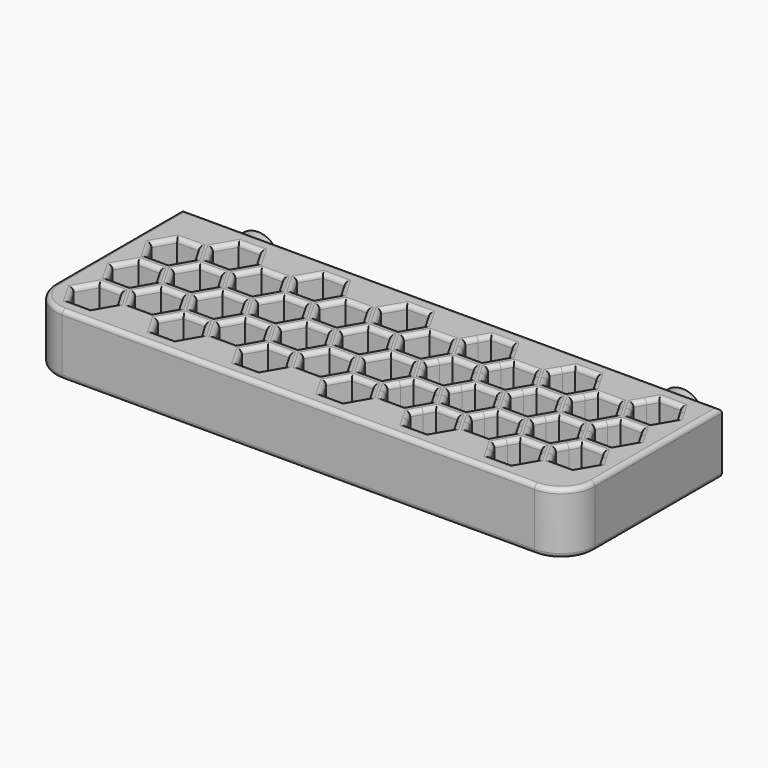
from build123d import *

# Parameters (mm, degrees)
F1_W     = 96.6151247493
F1_H     = 34.45
F2_DEPTH = 11
F3_DEPTH = 8
F4_R     = 6
F5_R     = 0.8
F6_R     = 2.4
F7_DEPTH = 2
F8_R     = 4
F8_R_2   = 2.4
F9_DEPTH = 2


with BuildPart() as f2:
    # F1 (on Top) → F2 (new body)
    with BuildSketch(Plane.XY):
        with Locations((71.5769996228, 10.875)):
            Rectangle(F1_W, F1_H)
    extrude(amount=-F2_DEPTH)

    # F0 (on Top) → F3 (cut)
    with BuildSketch(Plane.XY):
        Polygon((28.2035606499, 12.05), (26.2694372481, 8.7), (28.2035606499, 5.35), (32.0718074535, 5.35), (34.0059308553, 8.7), (32.0718074535, 12.05), align=None)
        Polygon((28.2035606499, 3.35), (26.2694372481, 0), (28.2035606499, -3.35), (32.0718074535, -3.35), (34.0059308553, 0), (32.0718074535, 3.35), align=None)
        Polygon((35.7379816628, 7.7), (33.8038582611, 4.35), (35.7379816628, 1), (39.6062284664, 1), (41.5403518682, 4.35), (39.6062284664, 7.7), align=None)
        Polygon((43.2724026758, 12.05), (41.338279274, 8.7), (43.2724026758, 5.35), (47.1406494793, 5.35), (49.0747728811, 8.7), (47.1406494793, 12.05), align=None)
        Polygon((43.2724026758, 3.35), (41.338279274, 0), (43.2724026758, -3.35), (47.1406494793, -3.35), (49.0747728811, 0), (47.1406494793, 3.35), align=None)
        Polygon((50.8068236887, 7.7), (48.8727002869, 4.35), (50.8068236887, 1), (54.6750704923, 1), (56.609193894, 4.35), (54.6750704923, 7.7), align=None)
        Polygon((58.3412447016, 12.05), (56.4071212998, 8.7), (58.3412447016, 5.35), (62.2094915052, 5.35), (64.143614907, 8.7), (62.2094915052, 12.05), align=None)
        Polygon((58.3412447016, 3.35), (56.4071212998, 0), (58.3412447016, -3.35), (62.2094915052, -3.35), (64.143614907, 0), (62.2094915052, 3.35), align=None)
        Polygon((65.8756657145, 7.7), (63.9415423128, 4.35), (65.8756657145, 1), (69.7439125181, 1), (71.6780359199, 4.35), (69.7439125181, 7.7), align=None)
        Polygon((73.4100867275, 12.05), (71.4759633257, 8.7), (73.4100867275, 5.35), (77.278333531, 5.35), (79.2124569328, 8.7), (77.278333531, 12.05), align=None)
        Polygon((73.4100867275, 3.35), (71.4759633257, 0), (73.4100867275, -3.35), (77.278333531, -3.35), (79.2124569328, 0), (77.278333531, 3.35), align=None)
        with BuildLine():
            ThreePointArc((85.779816152, 2.6749998392), (86.1144826362, 3.4829561093), (86.2286311422, 4.35))
            ThreePointArc((86.2286311422, 4.35), (86.1144826661, 5.2170437793), (85.7798162674, 6.0249999609))
            ThreePointArc((85.7798162674, 6.0249999609), (84.5536311617, 7.2511850914), (82.8786311422, 7.7))
            ThreePointArc((82.8786311422, 7.7), (81.2036311926, 7.2511851318), (79.9774460978, 6.025000101))
            ThreePointArc((79.9774460978, 6.025000101), (79.5286311422, 4.35), (79.9774460978, 2.674999899))
            ThreePointArc((79.9774460978, 2.674999899), (81.2036311926, 1.4488148682), (82.8786311422, 1))
            ThreePointArc((82.8786311422, 1), (84.5536310618, 1.4488148509), (85.779816152, 2.6749998392))
        make_face()
        with BuildLine():
            ThreePointArc((85.7798162674, 6.0249999609), (86.1144826661, 5.2170437793), (86.2286311422, 4.35))
            ThreePointArc((86.2286311422, 4.35), (86.1144826362, 3.4829561093), (85.779816152, 2.6749998392))
            Line((85.779816152, 2.6749998392), (86.7468779457, 4.35))
            Line((86.7468779457, 4.35), (85.7798162674, 6.0249999609))
        make_face()
        with BuildLine():
            ThreePointArc((82.8786311422, 7.7), (84.5536311617, 7.2511850914), (85.7798162674, 6.0249999609))
            Line((85.7798162674, 6.0249999609), (84.812754544, 7.7))
            Line((84.812754544, 7.7), (82.8786311422, 7.7))
        make_face()
        with BuildLine():
            Line((84.812754544, 1), (85.779816152, 2.6749998392))
            ThreePointArc((85.779816152, 2.6749998392), (84.5536310618, 1.4488148509), (82.8786311422, 1))
            Line((82.8786311422, 1), (84.812754544, 1))
        make_face()
        with BuildLine():
            ThreePointArc((79.9774460978, 6.025000101), (81.2036311926, 7.2511851318), (82.8786311422, 7.7))
            Line((82.8786311422, 7.7), (80.9445077404, 7.7))
            Line((80.9445077404, 7.7), (79.9774460978, 6.025000101))
        make_face()
        with BuildLine():
            Line((80.9445077404, 1), (82.8786311422, 1))
            ThreePointArc((82.8786311422, 1), (81.2036311926, 1.4488148682), (79.9774460978, 2.674999899))
            Line((79.9774460978, 2.674999899), (80.9445077404, 1))
        make_face()
        with BuildLine():
            ThreePointArc((79.9774460978, 2.674999899), (79.5286311422, 4.35), (79.9774460978, 6.025000101))
            Line((79.9774460978, 6.025000101), (79.0103843386, 4.35))
            Line((79.0103843386, 4.35), (79.9774460978, 2.674999899))
        make_face()
        with BuildLine():
            ThreePointArc((93.3142372458, 7.0249999793), (93.6489036701, 7.8329561874), (93.7630521551, 8.7))
            ThreePointArc((93.7630521551, 8.7), (93.6489036725, 9.5670438034), (93.3142372554, 10.3750000042))
            ThreePointArc((93.3142372554, 10.3750000042), (92.088052153, 11.6011851039), (90.4130521551, 12.05))
            ThreePointArc((90.4130521551, 12.05), (88.7380520655, 11.601185051), (87.511866949, 10.3749998209))
            ThreePointArc((87.511866949, 10.3749998209), (87.0630521551, 8.6999998942), (87.5118670548, 7.0249999958))
            ThreePointArc((87.5118670548, 7.0249999958), (88.7380521572, 5.7988148961), (90.4130521551, 5.35))
            ThreePointArc((90.4130521551, 5.35), (92.0880521447, 5.7988148913), (93.3142372458, 7.0249999793))
        make_face()
        with BuildLine():
            ThreePointArc((93.3142372554, 10.3750000042), (93.6489036725, 9.5670438034), (93.7630521551, 8.7))
            ThreePointArc((93.7630521551, 8.7), (93.6489036701, 7.8329561874), (93.3142372458, 7.0249999793))
            Line((93.3142372458, 7.0249999793), (94.2812989587, 8.7))
            Line((94.2812989587, 8.7), (93.3142372554, 10.3750000042))
        make_face()
        with BuildLine():
            ThreePointArc((90.4130521551, 12.05), (92.088052153, 11.6011851039), (93.3142372554, 10.3750000042))
            Line((93.3142372554, 10.3750000042), (92.3471755569, 12.05))
            Line((92.3471755569, 12.05), (90.4130521551, 12.05))
        make_face()
        with BuildLine():
            Line((92.3471755569, 5.35), (93.3142372458, 7.0249999793))
            ThreePointArc((93.3142372458, 7.0249999793), (92.0880521447, 5.7988148913), (90.4130521551, 5.35))
            Line((90.4130521551, 5.35), (92.3471755569, 5.35))
        make_face()
        with BuildLine():
            ThreePointArc((87.511866949, 10.3749998209), (88.7380520655, 11.601185051), (90.4130521551, 12.05))
            Line((90.4130521551, 12.05), (88.4789287533, 12.05))
            Line((88.4789287533, 12.05), (87.511866949, 10.3749998209))
        make_face()
        with BuildLine():
            Line((88.4789287533, 5.35), (90.4130521551, 5.35))
            ThreePointArc((90.4130521551, 5.35), (88.7380521572, 5.7988148961), (87.5118670548, 7.0249999958))
            Line((87.5118670548, 7.0249999958), (88.4789287533, 5.35))
        make_face()
        with BuildLine():
            ThreePointArc((87.5118670548, 7.0249999958), (87.0630521551, 8.6999998942), (87.511866949, 10.3749998209))
            Line((87.511866949, 10.3749998209), (86.5448053515, 8.7))
            Line((86.5448053515, 8.7), (87.5118670548, 7.0249999958))
        make_face()
        Polygon((35.7379816628, 16.4), (33.8038582611, 13.05), (35.7379816628, 9.7), (39.6062284664, 9.7), (41.5403518682, 13.05), (39.6062284664, 16.4), align=None)
        Polygon((50.8068236887, 16.4), (48.8727002869, 13.05), (50.8068236887, 9.7), (54.6750704923, 9.7), (56.609193894, 13.05), (54.6750704923, 16.4), align=None)
        Polygon((65.8756657145, 16.4), (63.9415423128, 13.05), (65.8756657145, 9.7), (69.7439125181, 9.7), (71.6780359199, 13.05), (69.7439125181, 16.4), align=None)
        with BuildLine():
            ThreePointArc((85.7798163056, 11.3750001052), (86.114482676, 12.1829562576), (86.2286311422, 13.05))
            ThreePointArc((86.2286311422, 13.05), (86.1144827039, 13.917043638), (85.7798164137, 14.7249997076))
            ThreePointArc((85.7798164137, 14.7249997076), (84.5536312884, 15.9511850183), (82.8786311422, 16.4))
            ThreePointArc((82.8786311422, 16.4), (81.2036311926, 15.9511851318), (79.9774460978, 14.725000101))
            ThreePointArc((79.9774460978, 14.725000101), (79.5286311422, 13.0500000809), (79.9774460169, 11.3750000391))
            ThreePointArc((79.9774460169, 11.3750000391), (81.2036311226, 10.1488149086), (82.8786311422, 9.7))
            ThreePointArc((82.8786311422, 9.7), (84.5536311948, 10.1488149277), (85.7798163056, 11.3750001052))
        make_face()
        with BuildLine():
            ThreePointArc((85.7798164137, 14.7249997076), (86.1144827039, 13.917043638), (86.2286311422, 13.05))
            ThreePointArc((86.2286311422, 13.05), (86.114482676, 12.1829562576), (85.7798163056, 11.3750001052))
            Line((85.7798163056, 11.3750001052), (86.7468779457, 13.05))
            Line((86.7468779457, 13.05), (85.7798164137, 14.7249997076))
        make_face()
        with BuildLine():
            ThreePointArc((82.8786311422, 16.4), (84.5536312884, 15.9511850183), (85.7798164137, 14.7249997076))
            Line((85.7798164137, 14.7249997076), (84.812754544, 16.4))
            Line((84.812754544, 16.4), (82.8786311422, 16.4))
        make_face()
        with BuildLine():
            Line((84.812754544, 9.7), (85.7798163056, 11.3750001052))
            ThreePointArc((85.7798163056, 11.3750001052), (84.5536311948, 10.1488149277), (82.8786311422, 9.7))
            Line((82.8786311422, 9.7), (84.812754544, 9.7))
        make_face()
        with BuildLine():
            ThreePointArc((79.9774460978, 14.725000101), (81.2036311926, 15.9511851318), (82.8786311422, 16.4))
            Line((82.8786311422, 16.4), (80.9445077404, 16.4))
            Line((80.9445077404, 16.4), (79.9774460978, 14.725000101))
        make_face()
        with BuildLine():
            Line((80.9445077404, 9.7), (82.8786311422, 9.7))
            ThreePointArc((82.8786311422, 9.7), (81.2036311226, 10.1488149086), (79.9774460169, 11.3750000391))
            Line((79.9774460169, 11.3750000391), (80.9445077404, 9.7))
        make_face()
        with BuildLine():
            ThreePointArc((79.9774460169, 11.3750000391), (79.5286311422, 13.0500000809), (79.9774460978, 14.725000101))
            Line((79.9774460978, 14.725000101), (79.0103843386, 13.05))
            Line((79.0103843386, 13.05), (79.9774460169, 11.3750000391))
        make_face()
        with BuildLine():
            ThreePointArc((100.8486583241, 11.3750000926), (101.1833246999, 12.1829562505), (101.297473168, 13.05))
            ThreePointArc((101.297473168, 13.05), (101.1833247024, 13.9170437402), (100.8486583337, 14.7249998909))
            ThreePointArc((100.8486583337, 14.7249998909), (99.6224732226, 15.9511850712), (97.947473168, 16.4))
            ThreePointArc((97.947473168, 16.4), (96.2724732185, 15.9511851318), (95.0462881236, 14.725000101))
            ThreePointArc((95.0462881236, 14.725000101), (94.597473168, 13.0500000809), (95.0462880428, 11.3750000391))
            ThreePointArc((95.0462880428, 11.3750000391), (96.2724731485, 10.1488149086), (97.947473168, 9.7))
            ThreePointArc((97.947473168, 9.7), (99.6224732143, 10.148814924), (100.8486583241, 11.3750000926))
        make_face()
        with BuildLine():
            ThreePointArc((100.8486583337, 14.7249998909), (101.1833247024, 13.9170437402), (101.297473168, 13.05))
            ThreePointArc((101.297473168, 13.05), (101.1833246999, 12.1829562505), (100.8486583241, 11.3750000926))
            Line((100.8486583241, 11.3750000926), (101.8157199716, 13.05))
            Line((101.8157199716, 13.05), (100.8486583337, 14.7249998909))
        make_face()
        with BuildLine():
            ThreePointArc((97.947473168, 16.4), (99.6224732226, 15.9511850712), (100.8486583337, 14.7249998909))
            Line((100.8486583337, 14.7249998909), (99.8815965698, 16.4))
            Line((99.8815965698, 16.4), (97.947473168, 16.4))
        make_face()
        with BuildLine():
            Line((99.8815965698, 9.7), (100.8486583241, 11.3750000926))
            ThreePointArc((100.8486583241, 11.3750000926), (99.6224732143, 10.148814924), (97.947473168, 9.7))
            Line((97.947473168, 9.7), (99.8815965698, 9.7))
        make_face()
        with BuildLine():
            ThreePointArc((95.0462881236, 14.725000101), (96.2724732185, 15.9511851318), (97.947473168, 16.4))
            Line((97.947473168, 16.4), (96.0133497662, 16.4))
            Line((96.0133497662, 16.4), (95.0462881236, 14.725000101))
        make_face()
        with BuildLine():
            Line((96.0133497662, 9.7), (97.947473168, 9.7))
            ThreePointArc((97.947473168, 9.7), (96.2724731485, 10.1488149086), (95.0462880428, 11.3750000391))
            Line((95.0462880428, 11.3750000391), (96.0133497662, 9.7))
        make_face()
        with BuildLine():
            ThreePointArc((95.0462880428, 11.3750000391), (94.597473168, 13.0500000809), (95.0462881236, 14.725000101))
            Line((95.0462881236, 14.725000101), (94.0792263644, 13.05))
            Line((94.0792263644, 13.05), (95.0462880428, 11.3750000391))
        make_face()
        Polygon((28.2035606499, 20.75), (26.2694372481, 17.4), (28.2035606499, 14.05), (32.0718074535, 14.05), (34.0059308553, 17.4), (32.0718074535, 20.75), align=None)
        Polygon((35.7379816628, 25.1), (33.8038582611, 21.75), (35.7379816628, 18.4), (39.6062284664, 18.4), (41.5403518682, 21.75), (39.6062284664, 25.1), align=None)
        Polygon((43.2724026758, 20.75), (41.338279274, 17.4), (43.2724026758, 14.05), (47.1406494793, 14.05), (49.0747728811, 17.4), (47.1406494793, 20.75), align=None)
        Polygon((50.8068236887, 25.1), (48.8727002869, 21.75), (50.8068236887, 18.4), (54.6750704923, 18.4), (56.609193894, 21.75), (54.6750704923, 25.1), align=None)
        Polygon((58.3412447016, 20.75), (56.4071212998, 17.4), (58.3412447016, 14.05), (62.2094915052, 14.05), (64.143614907, 17.4), (62.2094915052, 20.75), align=None)
        Polygon((65.8756657145, 25.1), (63.9415423128, 21.75), (65.8756657145, 18.4), (69.7439125181, 18.4), (71.6780359199, 21.75), (69.7439125181, 25.1), align=None)
        Polygon((73.4100867275, 20.75), (71.4759633257, 17.4), (73.4100867275, 14.05), (77.278333531, 14.05), (79.2124569328, 17.4), (77.278333531, 20.75), align=None)
        with BuildLine():
            ThreePointArc((85.7798163483, 20.0750001791), (86.114482687, 20.8829562988), (86.2286311422, 21.75))
            ThreePointArc((86.2286311422, 21.75), (86.1144826153, 22.6170439688), (85.7798160712, 23.4250003008))
            ThreePointArc((85.7798160712, 23.4250003008), (84.5536309918, 24.6511851895), (82.8786311422, 25.1))
            ThreePointArc((82.8786311422, 25.1), (81.203631153, 24.6511851089), (79.977446052, 23.4250000216))
            ThreePointArc((79.977446052, 23.4250000216), (79.5286311422, 21.7500000351), (79.9774460169, 20.0750000391))
            ThreePointArc((79.9774460169, 20.0750000391), (81.2036311226, 18.8488149086), (82.8786311422, 18.4))
            ThreePointArc((82.8786311422, 18.4), (84.5536312317, 18.848814949), (85.7798163483, 20.0750001791))
        make_face()
        with BuildLine():
            ThreePointArc((85.7798160712, 23.4250003008), (86.1144826153, 22.6170439688), (86.2286311422, 21.75))
            ThreePointArc((86.2286311422, 21.75), (86.114482687, 20.8829562988), (85.7798163483, 20.0750001791))
            Line((85.7798163483, 20.0750001791), (86.7468779457, 21.75))
            Line((86.7468779457, 21.75), (85.7798160712, 23.4250003008))
        make_face()
        with BuildLine():
            ThreePointArc((82.8786311422, 25.1), (84.5536309918, 24.6511851895), (85.7798160712, 23.4250003008))
            Line((85.7798160712, 23.4250003008), (84.812754544, 25.1))
            Line((84.812754544, 25.1), (82.8786311422, 25.1))
        make_face()
        with BuildLine():
            Line((84.812754544, 18.4), (85.7798163483, 20.0750001791))
            ThreePointArc((85.7798163483, 20.0750001791), (84.5536312317, 18.848814949), (82.8786311422, 18.4))
            Line((82.8786311422, 18.4), (84.812754544, 18.4))
        make_face()
        with BuildLine():
            ThreePointArc((79.977446052, 23.4250000216), (81.203631153, 24.6511851089), (82.8786311422, 25.1))
            Line((82.8786311422, 25.1), (80.9445077404, 25.1))
            Line((80.9445077404, 25.1), (79.977446052, 23.4250000216))
        make_face()
        with BuildLine():
            Line((80.9445077404, 18.4), (82.8786311422, 18.4))
            ThreePointArc((82.8786311422, 18.4), (81.2036311226, 18.8488149086), (79.9774460169, 20.0750000391))
            Line((79.9774460169, 20.0750000391), (80.9445077404, 18.4))
        make_face()
        with BuildLine():
            ThreePointArc((79.9774460169, 20.0750000391), (79.5286311422, 21.7500000351), (79.977446052, 23.4250000216))
            Line((79.977446052, 23.4250000216), (79.0103843386, 21.75))
            Line((79.0103843386, 21.75), (79.9774460169, 20.0750000391))
        make_face()
        with BuildLine():
            ThreePointArc((93.3142372554, 15.7249999958), (93.6489036725, 16.5329561966), (93.7630521551, 17.4))
            ThreePointArc((93.7630521551, 17.4), (93.648903679, 18.2670437793), (93.3142372803, 19.0749999609))
            ThreePointArc((93.3142372803, 19.0749999609), (92.0880521746, 20.3011850914), (90.4130521551, 20.75))
            ThreePointArc((90.4130521551, 20.75), (88.7380521572, 20.3011851039), (87.5118670548, 19.0750000042))
            ThreePointArc((87.5118670548, 19.0750000042), (87.0630521551, 17.4000000904), (87.5118669644, 15.7250001524))
            ThreePointArc((87.5118669644, 15.7250001524), (88.7380520789, 14.4988149413), (90.4130521551, 14.05))
            ThreePointArc((90.4130521551, 14.05), (92.088052153, 14.4988148961), (93.3142372554, 15.7249999958))
        make_face()
        with BuildLine():
            ThreePointArc((93.3142372803, 19.0749999609), (93.648903679, 18.2670437793), (93.7630521551, 17.4))
            ThreePointArc((93.7630521551, 17.4), (93.6489036725, 16.5329561966), (93.3142372554, 15.7249999958))
            Line((93.3142372554, 15.7249999958), (94.2812989587, 17.4))
            Line((94.2812989587, 17.4), (93.3142372803, 19.0749999609))
        make_face()
        with BuildLine():
            ThreePointArc((90.4130521551, 20.75), (92.0880521746, 20.3011850914), (93.3142372803, 19.0749999609))
            Line((93.3142372803, 19.0749999609), (92.3471755569, 20.75))
            Line((92.3471755569, 20.75), (90.4130521551, 20.75))
        make_face()
        with BuildLine():
            Line((92.3471755569, 14.05), (93.3142372554, 15.7249999958))
            ThreePointArc((93.3142372554, 15.7249999958), (92.088052153, 14.4988148961), (90.4130521551, 14.05))
            Line((90.4130521551, 14.05), (92.3471755569, 14.05))
        make_face()
        with BuildLine():
            ThreePointArc((87.5118670548, 19.0750000042), (88.7380521572, 20.3011851039), (90.4130521551, 20.75))
            Line((90.4130521551, 20.75), (88.4789287533, 20.75))
            Line((88.4789287533, 20.75), (87.5118670548, 19.0750000042))
        make_face()
        with BuildLine():
            Line((88.4789287533, 14.05), (90.4130521551, 14.05))
            ThreePointArc((90.4130521551, 14.05), (88.7380520789, 14.4988149413), (87.5118669644, 15.7250001524))
            Line((87.5118669644, 15.7250001524), (88.4789287533, 14.05))
        make_face()
        with BuildLine():
            ThreePointArc((87.5118669644, 15.7250001524), (87.0630521551, 17.4000000904), (87.5118670548, 19.0750000042))
            Line((87.5118670548, 19.0750000042), (86.5448053515, 17.4))
            Line((86.5448053515, 17.4), (87.5118669644, 15.7250001524))
        make_face()
        with BuildLine():
            ThreePointArc((100.8486583741, 20.0750001791), (101.1833247129, 20.8829562988), (101.297473168, 21.75))
            ThreePointArc((101.297473168, 21.75), (101.1833247024, 22.6170437402), (100.8486583337, 23.4249998909))
            ThreePointArc((100.8486583337, 23.4249998909), (99.6224732226, 24.6511850712), (97.947473168, 25.1))
            ThreePointArc((97.947473168, 25.1), (96.2724730785, 24.651185051), (95.0462879619, 23.4249998209))
            ThreePointArc((95.0462879619, 23.4249998209), (94.597473168, 21.7499999191), (95.0462880428, 20.0750000391))
            ThreePointArc((95.0462880428, 20.0750000391), (96.2724731485, 18.8488149086), (97.947473168, 18.4))
            ThreePointArc((97.947473168, 18.4), (99.6224732576, 18.848814949), (100.8486583741, 20.0750001791))
        make_face()
        with BuildLine():
            ThreePointArc((100.8486583337, 23.4249998909), (101.1833247024, 22.6170437402), (101.297473168, 21.75))
            ThreePointArc((101.297473168, 21.75), (101.1833247129, 20.8829562988), (100.8486583741, 20.0750001791))
            Line((100.8486583741, 20.0750001791), (101.8157199716, 21.75))
            Line((101.8157199716, 21.75), (100.8486583337, 23.4249998909))
        make_face()
        with BuildLine():
            ThreePointArc((97.947473168, 25.1), (99.6224732226, 24.6511850712), (100.8486583337, 23.4249998909))
            Line((100.8486583337, 23.4249998909), (99.8815965698, 25.1))
            Line((99.8815965698, 25.1), (97.947473168, 25.1))
        make_face()
        with BuildLine():
            Line((99.8815965698, 18.4), (100.8486583741, 20.0750001791))
            ThreePointArc((100.8486583741, 20.0750001791), (99.6224732576, 18.848814949), (97.947473168, 18.4))
            Line((97.947473168, 18.4), (99.8815965698, 18.4))
        make_face()
        with BuildLine():
            ThreePointArc((95.0462879619, 23.4249998209), (96.2724730785, 24.651185051), (97.947473168, 25.1))
            Line((97.947473168, 25.1), (96.0133497662, 25.1))
            Line((96.0133497662, 25.1), (95.0462879619, 23.4249998209))
        make_face()
        with BuildLine():
            Line((96.0133497662, 18.4), (97.947473168, 18.4))
            ThreePointArc((97.947473168, 18.4), (96.2724731485, 18.8488149086), (95.0462880428, 20.0750000391))
            Line((95.0462880428, 20.0750000391), (96.0133497662, 18.4))
        make_face()
        with BuildLine():
            ThreePointArc((95.0462880428, 20.0750000391), (94.597473168, 21.7499999191), (95.0462879619, 23.4249998209))
            Line((95.0462879619, 23.4249998209), (94.0792263644, 21.75))
            Line((94.0792263644, 21.75), (95.0462880428, 20.0750000391))
        make_face()
        with BuildLine():
            ThreePointArc((108.3830792003, 15.7249998558), (108.7177456775, 16.5329561185), (108.8318941809, 17.4))
            ThreePointArc((108.8318941809, 17.4), (108.7177456984, 18.2670438034), (108.3830792812, 19.0750000042))
            ThreePointArc((108.3830792812, 19.0750000042), (107.1568941789, 20.3011851039), (105.4818941809, 20.75))
            ThreePointArc((105.4818941809, 20.75), (103.8068940914, 20.301185051), (102.5807089748, 19.0749998209))
            ThreePointArc((102.5807089748, 19.0749998209), (102.1318941809, 17.4000000654), (102.5807089094, 15.7250002924))
            ThreePointArc((102.5807089094, 15.7250002924), (103.8068940347, 14.4988149817), (105.4818941809, 14.05))
            ThreePointArc((105.4818941809, 14.05), (107.1568941088, 14.4988148557), (108.3830792003, 15.7249998558))
        make_face()
        with BuildLine():
            ThreePointArc((108.3830792812, 19.0750000042), (108.7177456984, 18.2670438034), (108.8318941809, 17.4))
            ThreePointArc((108.8318941809, 17.4), (108.7177456775, 16.5329561185), (108.3830792003, 15.7249998558))
            Line((108.3830792003, 15.7249998558), (109.3501409845, 17.4))
            Line((109.3501409845, 17.4), (108.3830792812, 19.0750000042))
        make_face()
        with BuildLine():
            ThreePointArc((105.4818941809, 20.75), (107.1568941789, 20.3011851039), (108.3830792812, 19.0750000042))
            Line((108.3830792812, 19.0750000042), (107.4160175827, 20.75))
            Line((107.4160175827, 20.75), (105.4818941809, 20.75))
        make_face()
        with BuildLine():
            Line((107.4160175827, 14.05), (108.3830792003, 15.7249998558))
            ThreePointArc((108.3830792003, 15.7249998558), (107.1568941088, 14.4988148557), (105.4818941809, 14.05))
            Line((105.4818941809, 14.05), (107.4160175827, 14.05))
        make_face()
        with BuildLine():
            ThreePointArc((102.5807089748, 19.0749998209), (103.8068940914, 20.301185051), (105.4818941809, 20.75))
            Line((105.4818941809, 20.75), (103.5477707792, 20.75))
            Line((103.5477707792, 20.75), (102.5807089748, 19.0749998209))
        make_face()
        with BuildLine():
            Line((103.5477707792, 14.05), (105.4818941809, 14.05))
            ThreePointArc((105.4818941809, 14.05), (103.8068940347, 14.4988149817), (102.5807089094, 15.7250002924))
            Line((102.5807089094, 15.7250002924), (103.5477707792, 14.05))
        make_face()
        with BuildLine():
            ThreePointArc((102.5807089094, 15.7250002924), (102.1318941809, 17.4000000654), (102.5807089748, 19.0749998209))
            Line((102.5807089748, 19.0749998209), (101.6136473774, 17.4))
            Line((101.6136473774, 17.4), (102.5807089094, 15.7250002924))
        make_face()
        with BuildLine():
            ThreePointArc((115.9175002941, 20.0749999958), (116.2521667113, 20.8829561966), (116.3663151939, 21.75))
            ThreePointArc((116.3663151939, 21.75), (116.2521667178, 22.6170437793), (115.9175003191, 23.4249999609))
            ThreePointArc((115.9175003191, 23.4249999609), (114.6913152134, 24.6511850914), (113.0163151939, 25.1))
            ThreePointArc((113.0163151939, 25.1), (111.3413152047, 24.6511851089), (110.1151301037, 23.4250000216))
            ThreePointArc((110.1151301037, 23.4250000216), (109.6663151939, 21.7500000351), (110.1151300686, 20.0750000391))
            ThreePointArc((110.1151300686, 20.0750000391), (111.3413151743, 18.8488149086), (113.0163151939, 18.4))
            ThreePointArc((113.0163151939, 18.4), (114.6913151918, 18.8488148961), (115.9175002941, 20.0749999958))
        make_face()
        with BuildLine():
            ThreePointArc((115.9175003191, 23.4249999609), (116.2521667178, 22.6170437793), (116.3663151939, 21.75))
            ThreePointArc((116.3663151939, 21.75), (116.2521667113, 20.8829561966), (115.9175002941, 20.0749999958))
            Line((115.9175002941, 20.0749999958), (116.8845619974, 21.75))
            Line((116.8845619974, 21.75), (115.9175003191, 23.4249999609))
        make_face()
        with BuildLine():
            ThreePointArc((113.0163151939, 25.1), (114.6913152134, 24.6511850914), (115.9175003191, 23.4249999609))
            Line((115.9175003191, 23.4249999609), (114.9504385957, 25.1))
            Line((114.9504385957, 25.1), (113.0163151939, 25.1))
        make_face()
        with BuildLine():
            Line((114.9504385957, 18.4), (115.9175002941, 20.0749999958))
            ThreePointArc((115.9175002941, 20.0749999958), (114.6913151918, 18.8488148961), (113.0163151939, 18.4))
            Line((113.0163151939, 18.4), (114.9504385957, 18.4))
        make_face()
        with BuildLine():
            ThreePointArc((110.1151301037, 23.4250000216), (111.3413152047, 24.6511851089), (113.0163151939, 25.1))
            Line((113.0163151939, 25.1), (111.0821917921, 25.1))
            Line((111.0821917921, 25.1), (110.1151301037, 23.4250000216))
        make_face()
        with BuildLine():
            Line((111.0821917921, 18.4), (113.0163151939, 18.4))
            ThreePointArc((113.0163151939, 18.4), (111.3413151743, 18.8488149086), (110.1151300686, 20.0750000391))
            Line((110.1151300686, 20.0750000391), (111.0821917921, 18.4))
        make_face()
        with BuildLine():
            ThreePointArc((110.1151300686, 20.0750000391), (109.6663151939, 21.7500000351), (110.1151301037, 23.4250000216))
            Line((110.1151301037, 23.4250000216), (109.1480683903, 21.75))
            Line((109.1480683903, 21.75), (110.1151300686, 20.0750000391))
        make_face()
        with BuildLine():
            ThreePointArc((93.3142372054, -1.6750000907), (93.6489036596, -0.8670438517), (93.7630521551, 0))
            ThreePointArc((93.7630521551, 0), (93.6489036596, 0.8670438517), (93.3142372054, 1.6750000907))
            ThreePointArc((93.3142372054, 1.6750000907), (92.0880521097, 2.9011851289), (90.4130521551, 3.35))
            ThreePointArc((90.4130521551, 3.35), (88.7380522056, 2.9011851318), (87.5118671107, 1.675000101))
            ThreePointArc((87.5118671107, 1.675000101), (87.0630521551, 1.367e-07), (87.511866974, -1.6749998641))
            ThreePointArc((87.511866974, -1.6749998641), (88.7380520872, -2.9011850635), (90.4130521551, -3.35))
            ThreePointArc((90.4130521551, -3.35), (92.0880521097, -2.9011851289), (93.3142372054, -1.6750000907))
        make_face()
        with BuildLine():
            ThreePointArc((93.3142372054, 1.6750000907), (93.6489036596, 0.8670438517), (93.7630521551, 0))
            ThreePointArc((93.7630521551, 0), (93.6489036596, -0.8670438517), (93.3142372054, -1.6750000907))
            Line((93.3142372054, -1.6750000907), (94.2812989587, 0))
            Line((94.2812989587, 0), (93.3142372054, 1.6750000907))
        make_face()
        with BuildLine():
            ThreePointArc((90.4130521551, 3.35), (92.0880521097, 2.9011851289), (93.3142372054, 1.6750000907))
            Line((93.3142372054, 1.6750000907), (92.3471755569, 3.35))
            Line((92.3471755569, 3.35), (90.4130521551, 3.35))
        make_face()
        with BuildLine():
            Line((92.3471755569, -3.35), (93.3142372054, -1.6750000907))
            ThreePointArc((93.3142372054, -1.6750000907), (92.0880521097, -2.9011851289), (90.4130521551, -3.35))
            Line((90.4130521551, -3.35), (92.3471755569, -3.35))
        make_face()
        with BuildLine():
            ThreePointArc((87.5118671107, 1.675000101), (88.7380522056, 2.9011851318), (90.4130521551, 3.35))
            Line((90.4130521551, 3.35), (88.4789287533, 3.35))
            Line((88.4789287533, 3.35), (87.5118671107, 1.675000101))
        make_face()
        with BuildLine():
            Line((88.4789287533, -3.35), (90.4130521551, -3.35))
            ThreePointArc((90.4130521551, -3.35), (88.7380520872, -2.9011850635), (87.511866974, -1.6749998641))
            Line((87.511866974, -1.6749998641), (88.4789287533, -3.35))
        make_face()
        with BuildLine():
            ThreePointArc((87.511866974, -1.6749998641), (87.0630521551, 1.367e-07), (87.5118671107, 1.675000101))
            Line((87.5118671107, 1.675000101), (86.5448053515, 0))
            Line((86.5448053515, 0), (87.511866974, -1.6749998641))
        make_face()
        with BuildLine():
            ThreePointArc((100.8486583241, 2.6750000926), (101.1833246999, 3.4829562505), (101.297473168, 4.35))
            ThreePointArc((101.297473168, 4.35), (101.1833247089, 5.2170437161), (100.8486583587, 6.0249998476))
            ThreePointArc((100.8486583587, 6.0249998476), (99.6224732442, 7.2511850587), (97.947473168, 7.7))
            ThreePointArc((97.947473168, 7.7), (96.2724731351, 7.2511850837), (95.0462880273, 6.0249999342))
            ThreePointArc((95.0462880273, 6.0249999342), (94.597473168, 4.3500000125), (95.0462880148, 2.6750000875))
            ThreePointArc((95.0462880148, 2.6750000875), (96.2724731243, 1.4488149226), (97.947473168, 1))
            ThreePointArc((97.947473168, 1), (99.6224732143, 1.448814924), (100.8486583241, 2.6750000926))
        make_face()
        with BuildLine():
            ThreePointArc((100.8486583587, 6.0249998476), (101.1833247089, 5.2170437161), (101.297473168, 4.35))
            ThreePointArc((101.297473168, 4.35), (101.1833246999, 3.4829562505), (100.8486583241, 2.6750000926))
            Line((100.8486583241, 2.6750000926), (101.8157199716, 4.35))
            Line((101.8157199716, 4.35), (100.8486583587, 6.0249998476))
        make_face()
        with BuildLine():
            ThreePointArc((97.947473168, 7.7), (99.6224732442, 7.2511850587), (100.8486583587, 6.0249998476))
            Line((100.8486583587, 6.0249998476), (99.8815965698, 7.7))
            Line((99.8815965698, 7.7), (97.947473168, 7.7))
        make_face()
        with BuildLine():
            Line((99.8815965698, 1), (100.8486583241, 2.6750000926))
            ThreePointArc((100.8486583241, 2.6750000926), (99.6224732143, 1.448814924), (97.947473168, 1))
            Line((97.947473168, 1), (99.8815965698, 1))
        make_face()
        with BuildLine():
            ThreePointArc((95.0462880273, 6.0249999342), (96.2724731351, 7.2511850837), (97.947473168, 7.7))
            Line((97.947473168, 7.7), (96.0133497662, 7.7))
            Line((96.0133497662, 7.7), (95.0462880273, 6.0249999342))
        make_face()
        with BuildLine():
            Line((96.0133497662, 1), (97.947473168, 1))
            ThreePointArc((97.947473168, 1), (96.2724731243, 1.4488149226), (95.0462880148, 2.6750000875))
            Line((95.0462880148, 2.6750000875), (96.0133497662, 1))
        make_face()
        with BuildLine():
            ThreePointArc((95.0462880148, 2.6750000875), (94.597473168, 4.3500000125), (95.0462880273, 6.0249999342))
            Line((95.0462880273, 6.0249999342), (94.0792263644, 4.35))
            Line((94.0792263644, 4.35), (95.0462880148, 2.6750000875))
        make_face()
        with BuildLine():
            ThreePointArc((108.3830792713, 7.0249999787), (108.7177456958, 7.832956187), (108.8318941809, 8.7))
            ThreePointArc((108.8318941809, 8.7), (108.7177456984, 9.5670438034), (108.3830792812, 10.3750000042))
            ThreePointArc((108.3830792812, 10.3750000042), (107.1568941789, 11.6011851039), (105.4818941809, 12.05))
            ThreePointArc((105.4818941809, 12.05), (103.8068942613, 11.6011851491), (102.5807091711, 10.3750001608))
            ThreePointArc((102.5807091711, 10.3750001608), (102.1318941809, 8.6999999596), (102.5807092115, 7.0249997692))
            ThreePointArc((102.5807092115, 7.0249997692), (103.8068942963, 5.7988148307), (105.4818941809, 5.35))
            ThreePointArc((105.4818941809, 5.35), (107.1568941703, 5.7988148912), (108.3830792713, 7.0249999787))
        make_face()
        with BuildLine():
            ThreePointArc((108.3830792812, 10.3750000042), (108.7177456984, 9.5670438034), (108.8318941809, 8.7))
            ThreePointArc((108.8318941809, 8.7), (108.7177456958, 7.832956187), (108.3830792713, 7.0249999787))
            Line((108.3830792713, 7.0249999787), (109.3501409845, 8.7))
            Line((109.3501409845, 8.7), (108.3830792812, 10.3750000042))
        make_face()
        with BuildLine():
            ThreePointArc((105.4818941809, 12.05), (107.1568941789, 11.6011851039), (108.3830792812, 10.3750000042))
            Line((108.3830792812, 10.3750000042), (107.4160175827, 12.05))
            Line((107.4160175827, 12.05), (105.4818941809, 12.05))
        make_face()
        with BuildLine():
            Line((107.4160175827, 5.35), (108.3830792713, 7.0249999787))
            ThreePointArc((108.3830792713, 7.0249999787), (107.1568941703, 5.7988148912), (105.4818941809, 5.35))
            Line((105.4818941809, 5.35), (107.4160175827, 5.35))
        make_face()
        with BuildLine():
            ThreePointArc((102.5807091711, 10.3750001608), (103.8068942613, 11.6011851491), (105.4818941809, 12.05))
            Line((105.4818941809, 12.05), (103.5477707792, 12.05))
            Line((103.5477707792, 12.05), (102.5807091711, 10.3750001608))
        make_face()
        with BuildLine():
            Line((103.5477707792, 5.35), (105.4818941809, 5.35))
            ThreePointArc((105.4818941809, 5.35), (103.8068942963, 5.7988148307), (102.5807092115, 7.0249997692))
            Line((102.5807092115, 7.0249997692), (103.5477707792, 5.35))
        make_face()
        with BuildLine():
            ThreePointArc((102.5807092115, 7.0249997692), (102.1318941809, 8.6999999596), (102.5807091711, 10.3750001608))
            Line((102.5807091711, 10.3750001608), (101.6136473774, 8.7))
            Line((101.6136473774, 8.7), (102.5807092115, 7.0249997692))
        make_face()
        with BuildLine():
            ThreePointArc((115.9175002037, 11.3749998392), (116.2521666879, 12.1829561093), (116.3663151939, 13.05))
            ThreePointArc((116.3663151939, 13.05), (116.2521667412, 13.917043692), (115.9175004095, 14.7249998043))
            ThreePointArc((115.9175004095, 14.7249998043), (114.6913152917, 15.9511850462), (113.0163151939, 16.4))
            ThreePointArc((113.0163151939, 16.4), (111.341315161, 15.9511850837), (110.1151300532, 14.7249999342))
            ThreePointArc((110.1151300532, 14.7249999342), (109.6663151939, 13.0499999441), (110.1151301091, 11.3749999691))
            ThreePointArc((110.1151301091, 11.3749999691), (111.3413152093, 10.1488148884), (113.0163151939, 9.7))
            ThreePointArc((113.0163151939, 9.7), (114.6913151135, 10.1488148509), (115.9175002037, 11.3749998392))
        make_face()
        with BuildLine():
            ThreePointArc((115.9175004095, 14.7249998043), (116.2521667412, 13.917043692), (116.3663151939, 13.05))
            ThreePointArc((116.3663151939, 13.05), (116.2521666879, 12.1829561093), (115.9175002037, 11.3749998392))
            Line((115.9175002037, 11.3749998392), (116.8845619974, 13.05))
            Line((116.8845619974, 13.05), (115.9175004095, 14.7249998043))
        make_face()
        with BuildLine():
            ThreePointArc((113.0163151939, 16.4), (114.6913152917, 15.9511850462), (115.9175004095, 14.7249998043))
            Line((115.9175004095, 14.7249998043), (114.9504385957, 16.4))
            Line((114.9504385957, 16.4), (113.0163151939, 16.4))
        make_face()
        with BuildLine():
            Line((114.9504385957, 9.7), (115.9175002037, 11.3749998392))
            ThreePointArc((115.9175002037, 11.3749998392), (114.6913151135, 10.1488148509), (113.0163151939, 9.7))
            Line((113.0163151939, 9.7), (114.9504385957, 9.7))
        make_face()
        with BuildLine():
            ThreePointArc((110.1151300532, 14.7249999342), (111.341315161, 15.9511850837), (113.0163151939, 16.4))
            Line((113.0163151939, 16.4), (111.0821917921, 16.4))
            Line((111.0821917921, 16.4), (110.1151300532, 14.7249999342))
        make_face()
        with BuildLine():
            Line((111.0821917921, 9.7), (113.0163151939, 9.7))
            ThreePointArc((113.0163151939, 9.7), (111.3413152093, 10.1488148884), (110.1151301091, 11.3749999691))
            Line((110.1151301091, 11.3749999691), (111.0821917921, 9.7))
        make_face()
        with BuildLine():
            ThreePointArc((110.1151301091, 11.3749999691), (109.6663151939, 13.0499999441), (110.1151300532, 14.7249999342))
            Line((110.1151300532, 14.7249999342), (109.1480683903, 13.05))
            Line((109.1480683903, 13.05), (110.1151301091, 11.3749999691))
        make_face()
        with BuildLine():
            ThreePointArc((108.3830792312, -1.6750000907), (108.7177456855, -0.8670438517), (108.8318941809, 0))
            ThreePointArc((108.8318941809, 0), (108.7177456855, 0.8670438517), (108.3830792312, 1.6750000907))
            ThreePointArc((108.3830792312, 1.6750000907), (107.1568941356, 2.9011851289), (105.4818941809, 3.35))
            ThreePointArc((105.4818941809, 3.35), (103.8068941048, 2.9011850587), (102.5807089903, 1.6749998476))
            ThreePointArc((102.5807089903, 1.6749998476), (102.1318941809, 9.5e-09), (102.5807089807, -1.6749998311))
            ThreePointArc((102.5807089807, -1.6749998311), (103.8068940965, -2.9011850539), (105.4818941809, -3.35))
            ThreePointArc((105.4818941809, -3.35), (107.1568941356, -2.9011851289), (108.3830792312, -1.6750000907))
        make_face()
        with BuildLine():
            ThreePointArc((108.3830792312, 1.6750000907), (108.7177456855, 0.8670438517), (108.8318941809, 0))
            ThreePointArc((108.8318941809, 0), (108.7177456855, -0.8670438517), (108.3830792312, -1.6750000907))
            Line((108.3830792312, -1.6750000907), (109.3501409845, 0))
            Line((109.3501409845, 0), (108.3830792312, 1.6750000907))
        make_face()
        with BuildLine():
            ThreePointArc((105.4818941809, 3.35), (107.1568941356, 2.9011851289), (108.3830792312, 1.6750000907))
            Line((108.3830792312, 1.6750000907), (107.4160175827, 3.35))
            Line((107.4160175827, 3.35), (105.4818941809, 3.35))
        make_face()
        with BuildLine():
            Line((107.4160175827, -3.35), (108.3830792312, -1.6750000907))
            ThreePointArc((108.3830792312, -1.6750000907), (107.1568941356, -2.9011851289), (105.4818941809, -3.35))
            Line((105.4818941809, -3.35), (107.4160175827, -3.35))
        make_face()
        with BuildLine():
            ThreePointArc((102.5807089903, 1.6749998476), (103.8068941048, 2.9011850587), (105.4818941809, 3.35))
            Line((105.4818941809, 3.35), (103.5477707792, 3.35))
            Line((103.5477707792, 3.35), (102.5807089903, 1.6749998476))
        make_face()
        with BuildLine():
            Line((103.5477707792, -3.35), (105.4818941809, -3.35))
            ThreePointArc((105.4818941809, -3.35), (103.8068940965, -2.9011850539), (102.5807089807, -1.6749998311))
            Line((102.5807089807, -1.6749998311), (103.5477707792, -3.35))
        make_face()
        with BuildLine():
            ThreePointArc((102.5807089807, -1.6749998311), (102.1318941809, 9.5e-09), (102.5807089903, 1.6749998476))
            Line((102.5807089903, 1.6749998476), (101.6136473774, 0))
            Line((101.6136473774, 0), (102.5807089807, -1.6749998311))
        make_face()
        with BuildLine():
            ThreePointArc((115.9175002287, 2.6749998825), (116.2521666944, 3.4829561334), (116.3663151939, 4.35))
            ThreePointArc((116.3663151939, 4.35), (116.2521666969, 5.2170438574), (115.9175002383, 6.025000101))
            ThreePointArc((115.9175002383, 6.025000101), (114.6913151434, 7.2511851318), (113.0163151939, 7.7))
            ThreePointArc((113.0163151939, 7.7), (111.341315161, 7.2511850837), (110.1151300532, 6.0249999342))
            ThreePointArc((110.1151300532, 6.0249999342), (109.6663151939, 4.3500000125), (110.1151300407, 2.6750000875))
            ThreePointArc((110.1151300407, 2.6750000875), (111.3413151501, 1.4488149226), (113.0163151939, 1))
            ThreePointArc((113.0163151939, 1), (114.6913151351, 1.4488148634), (115.9175002287, 2.6749998825))
        make_face()
        with BuildLine():
            ThreePointArc((115.9175002383, 6.025000101), (116.2521666969, 5.2170438574), (116.3663151939, 4.35))
            ThreePointArc((116.3663151939, 4.35), (116.2521666944, 3.4829561334), (115.9175002287, 2.6749998825))
            Line((115.9175002287, 2.6749998825), (116.8845619974, 4.35))
            Line((116.8845619974, 4.35), (115.9175002383, 6.025000101))
        make_face()
        with BuildLine():
            ThreePointArc((113.0163151939, 7.7), (114.6913151434, 7.2511851318), (115.9175002383, 6.025000101))
            Line((115.9175002383, 6.025000101), (114.9504385957, 7.7))
            Line((114.9504385957, 7.7), (113.0163151939, 7.7))
        make_face()
        with BuildLine():
            Line((114.9504385957, 1), (115.9175002287, 2.6749998825))
            ThreePointArc((115.9175002287, 2.6749998825), (114.6913151351, 1.4488148634), (113.0163151939, 1))
            Line((113.0163151939, 1), (114.9504385957, 1))
        make_face()
        with BuildLine():
            ThreePointArc((110.1151300532, 6.0249999342), (111.341315161, 7.2511850837), (113.0163151939, 7.7))
            Line((113.0163151939, 7.7), (111.0821917921, 7.7))
            Line((111.0821917921, 7.7), (110.1151300532, 6.0249999342))
        make_face()
        with BuildLine():
            Line((111.0821917921, 1), (113.0163151939, 1))
            ThreePointArc((113.0163151939, 1), (111.3413151501, 1.4488149226), (110.1151300407, 2.6750000875))
            Line((110.1151300407, 2.6750000875), (111.0821917921, 1))
        make_face()
        with BuildLine():
            ThreePointArc((110.1151300407, 2.6750000875), (109.6663151939, 4.3500000125), (110.1151300532, 6.0249999342))
            Line((110.1151300532, 6.0249999342), (109.1480683903, 4.35))
            Line((109.1480683903, 4.35), (110.1151300407, 2.6750000875))
        make_face()
    extrude(amount=-F3_DEPTH, mode=Mode.SUBTRACT)

    # F4
    f4_edges = [f2.edges().sort_by_distance(p)[0] for p in [
        (23.269437, -6.35, -5.5),
        (119.884562, -6.35, -5.5),
    ]]
    fillet(f4_edges, radius=F4_R)

    # F5
    f5_edges = [f2.edges().sort_by_distance(p)[0] for p in [
        (23.269437, 13.875, -11),
        (71.577, -6.35, 0),
        (25.026797, -4.592641, 0),
        (118.127203, -4.592641, 0),
        (23.269437, 13.875, 0),
        (119.884562, 13.875, 0),
        (71.577, 28.1, 0),
        (33.038869, 1.675, 0),
        (30.137684, 3.35, 0),
        (27.236499, 1.675, 0),
        (27.236499, -1.675, 0),
        (30.137684, -3.35, 0),
        (33.038869, -1.675, 0),
        (48.107711, 1.675, 0),
        (45.206526, 3.35, 0),
        (42.305341, 1.675, 0),
        (42.305341, -1.675, 0),
        (45.206526, -3.35, 0),
        (48.107711, -1.675, 0),
        (60.275368, 3.35, 0),
        (57.374183, 1.675, 0),
        (57.374183, -1.675, 0),
        (60.275368, -3.35, 0),
        (63.176553, -1.675, 0),
        (63.176553, 1.675, 0),
        (34.77092, 6.025, 0),
        (34.77092, 2.675, 0),
        (37.672105, 1, 0),
        (40.57329, 2.675, 0),
        (40.57329, 6.025, 0),
        (37.672105, 7.7, 0),
        (33.038869, 10.375, 0),
        (30.137684, 12.05, 0),
        (27.236499, 10.375, 0),
        (27.236499, 7.025, 0),
        (30.137684, 5.35, 0),
        (33.038869, 7.025, 0),
        (48.107711, 10.375, 0),
        (45.206526, 12.05, 0),
        (42.305341, 10.375, 0),
        (42.305341, 7.025, 0),
        (45.206526, 5.35, 0),
        (48.107711, 7.025, 0),
        (55.642132, 6.025, 0),
        (52.740947, 7.7, 0),
        (49.839762, 6.025, 0),
        (49.839762, 2.675, 0),
        (52.740947, 1, 0),
        (55.642132, 2.675, 0),
        (64.908604, 6.025, 0),
        (64.908604, 2.675, 0),
        (67.809789, 1, 0),
        (70.710974, 2.675, 0),
        (70.710974, 6.025, 0),
        (67.809789, 7.7, 0),
        (57.374183, 10.375, 0),
        (57.374183, 7.025, 0),
        (60.275368, 5.35, 0),
        (63.176553, 7.025, 0),
        (63.176553, 10.375, 0),
        (60.275368, 12.05, 0),
        (72.443025, 1.675, 0),
        (72.443025, -1.675, 0),
        (75.34421, -3.35, 0),
        (78.245395, -1.675, 0),
        (78.245395, 1.675, 0),
        (75.34421, 3.35, 0),
        (90.413052, -3.35, 0),
        (93.314237, -1.675, 0),
        (93.314237, 1.675, 0),
        (90.413052, 3.35, 0),
        (87.511867, 1.675, 0),
        (87.511867, -1.675, 0),
        (105.481894, -3.35, 0),
        (108.383079, -1.675, 0),
        (108.383079, 1.675, 0),
        (105.481894, 3.35, 0),
        (102.580709, 1.675, 0),
        (102.580709, -1.675, 0),
        (82.878631, 1, 0),
        (85.779816, 2.675, 0),
        (85.779816, 6.025, 0),
        (82.878631, 7.7, 0),
        (79.977446, 6.025, 0),
        (79.977446, 2.675, 0),
        (75.34421, 12.05, 0),
        (72.443025, 10.375, 0),
        (72.443025, 7.025, 0),
        (75.34421, 5.35, 0),
        (78.245395, 7.025, 0),
        (78.245395, 10.375, 0),
        (90.413052, 5.35, 0),
        (93.314237, 7.025, 0),
        (93.314237, 10.375, 0),
        (90.413052, 12.05, 0),
        (87.511867, 10.375, 0),
        (87.511867, 7.025, 0),
        (97.947473, 1, 0),
        (100.848658, 2.675, 0),
        (100.848658, 6.025, 0),
        (97.947473, 7.7, 0),
        (95.046288, 6.025, 0),
        (95.046288, 2.675, 0),
        (113.016315, 1, 0),
        (115.9175, 2.675, 0),
        (115.9175, 6.025, 0),
        (113.016315, 7.7, 0),
        (110.11513, 6.025, 0),
        (110.11513, 2.675, 0),
        (105.481894, 5.35, 0),
        (108.383079, 7.025, 0),
        (108.383079, 10.375, 0),
        (105.481894, 12.05, 0),
        (102.580709, 10.375, 0),
        (102.580709, 7.025, 0),
        (34.77092, 14.725, 0),
        (34.77092, 11.375, 0),
        (37.672105, 9.7, 0),
        (40.57329, 11.375, 0),
        (40.57329, 14.725, 0),
        (37.672105, 16.4, 0),
        (33.038869, 19.075, 0),
        (30.137684, 20.75, 0),
        (27.236499, 19.075, 0),
        (27.236499, 15.725, 0),
        (30.137684, 14.05, 0),
        (33.038869, 15.725, 0),
        (42.305341, 19.075, 0),
        (42.305341, 15.725, 0),
        (45.206526, 14.05, 0),
        (48.107711, 15.725, 0),
        (48.107711, 19.075, 0),
        (45.206526, 20.75, 0),
        (49.839762, 14.725, 0),
        (49.839762, 11.375, 0),
        (52.740947, 9.7, 0),
        (55.642132, 11.375, 0),
        (55.642132, 14.725, 0),
        (52.740947, 16.4, 0),
        (64.908604, 14.725, 0),
        (64.908604, 11.375, 0),
        (67.809789, 9.7, 0),
        (70.710974, 11.375, 0),
        (70.710974, 14.725, 0),
        (67.809789, 16.4, 0),
        (57.374183, 19.075, 0),
        (57.374183, 15.725, 0),
        (60.275368, 14.05, 0),
        (63.176553, 15.725, 0),
        (63.176553, 19.075, 0),
        (60.275368, 20.75, 0),
        (34.77092, 23.425, 0),
        (34.77092, 20.075, 0),
        (37.672105, 18.4, 0),
        (40.57329, 20.075, 0),
        (40.57329, 23.425, 0),
        (37.672105, 25.1, 0),
        (55.642132, 23.425, 0),
        (52.740947, 25.1, 0),
        (49.839762, 23.425, 0),
        (49.839762, 20.075, 0),
        (52.740947, 18.4, 0),
        (55.642132, 20.075, 0),
        (64.908604, 23.425, 0),
        (64.908604, 20.075, 0),
        (67.809789, 18.4, 0),
        (70.710974, 20.075, 0),
        (70.710974, 23.425, 0),
        (67.809789, 25.1, 0),
        (82.878631, 9.7, 0),
        (85.779816, 11.375, 0),
        (85.779816, 14.725, 0),
        (82.878631, 16.4, 0),
        (79.977446, 14.725, 0),
        (79.977446, 11.375, 0),
        (72.443025, 19.075, 0),
        (72.443025, 15.725, 0),
        (75.34421, 14.05, 0),
        (78.245395, 15.725, 0),
        (78.245395, 19.075, 0),
        (75.34421, 20.75, 0),
        (90.413052, 14.05, 0),
        (93.314237, 15.725, 0),
        (93.314237, 19.075, 0),
        (90.413052, 20.75, 0),
        (87.511867, 19.075, 0),
        (87.511867, 15.725, 0),
        (97.947473, 9.7, 0),
        (100.848658, 11.375, 0),
        (100.848658, 14.725, 0),
        (97.947473, 16.4, 0),
        (95.046288, 14.725, 0),
        (95.046288, 11.375, 0),
        (113.016315, 9.7, 0),
        (115.9175, 11.375, 0),
        (115.9175, 14.725, 0),
        (113.016315, 16.4, 0),
        (110.11513, 14.725, 0),
        (110.11513, 11.375, 0),
        (105.481894, 14.05, 0),
        (108.383079, 15.725, 0),
        (108.383079, 19.075, 0),
        (105.481894, 20.75, 0),
        (102.580709, 19.075, 0),
        (102.580709, 15.725, 0),
        (82.878631, 18.4, 0),
        (85.779816, 20.075, 0),
        (85.779816, 23.425, 0),
        (82.878631, 25.1, 0),
        (79.977446, 23.425, 0),
        (79.977446, 20.075, 0),
        (97.947473, 18.4, 0),
        (100.848658, 20.075, 0),
        (100.848658, 23.425, 0),
        (97.947473, 25.1, 0),
        (95.046288, 23.425, 0),
        (95.046288, 20.075, 0),
        (113.016315, 18.4, 0),
        (115.9175, 20.075, 0),
        (115.9175, 23.425, 0),
        (113.016315, 25.1, 0),
        (110.11513, 23.425, 0),
        (110.11513, 20.075, 0),
    ]]
    fillet(f5_edges, radius=F5_R)

    # F6 (on face) → F7 (join)
    with BuildSketch(Plane(origin=(0, 28.1, 0), x_dir=(-1, 0, 0), z_dir=(0, 1, 0))):
        with Locations((-109.5769996228, -5.9)):
            Circle(F6_R)
        with Locations((-33.5769996228, -5.9)):
            Circle(F6_R)
    extrude(amount=F7_DEPTH)

    # F8 (on face) → F9 (join)
    with BuildSketch(Plane(origin=(0, 30.1, 0), x_dir=(-1, 0, 0), z_dir=(0, 1, 0))):
        with Locations((-109.5769996228, -5.9)):
            Circle(F8_R)
        with Locations((-109.5769996228, -5.9)):
            Circle(F8_R_2, mode=Mode.SUBTRACT)
        with Locations((-109.5769996228, -5.9)):
            Circle(F8_R_2)
        with Locations((-33.5769996228, -5.9)):
            Circle(F8_R)
    extrude(amount=F9_DEPTH)


solid = f2.part
